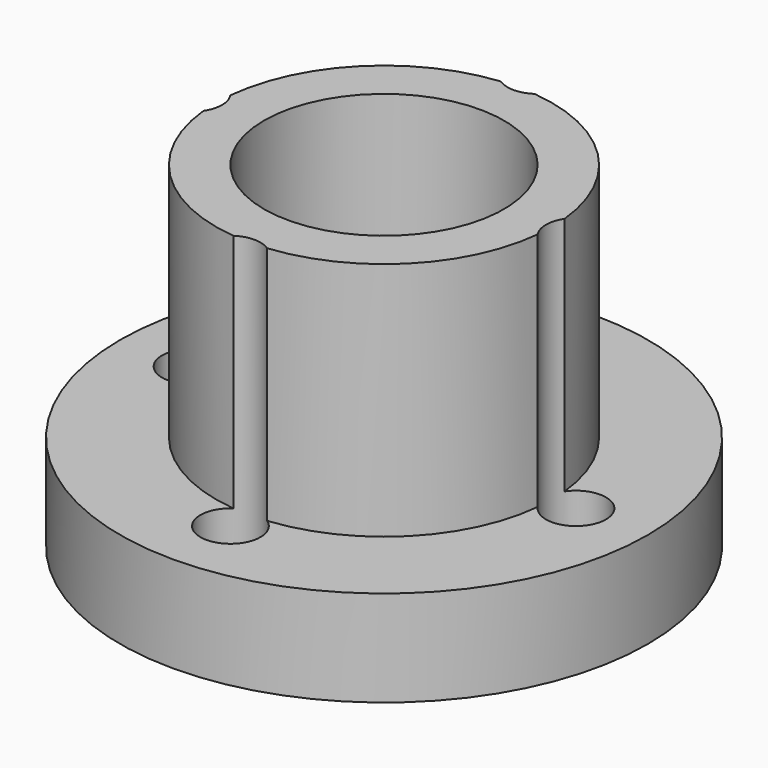
from build123d import *

# Parameters (mm, degrees)
F2_R     = 1.25
F3_DEPTH = 14


with BuildPart() as f1:
    # F0 (on Front) → F1 (revolve)
    with BuildSketch(Plane.XZ):
        Polygon((-5, 0), (-5, 14), (-7, 14), (-7, 4), (-11, 4), (-11, 0), align=None)
    revolve(axis=Axis((0, 0, -1.594857), (0, 0, -1)))

    # F2 (on face) → F3 (cut)
    with BuildSketch(Plane(origin=(0, 0, 0), x_dir=(1, 0, 0), z_dir=(0, 0, -1))):
        with Locations((0, 8)):
            Circle(F2_R)
        with Locations((-8, 0)):
            Circle(F2_R)
        with Locations((8, 0)):
            Circle(F2_R)
        with Locations((0, -8)):
            Circle(F2_R)
    extrude(amount=-F3_DEPTH, mode=Mode.SUBTRACT)


solid = f1.part
